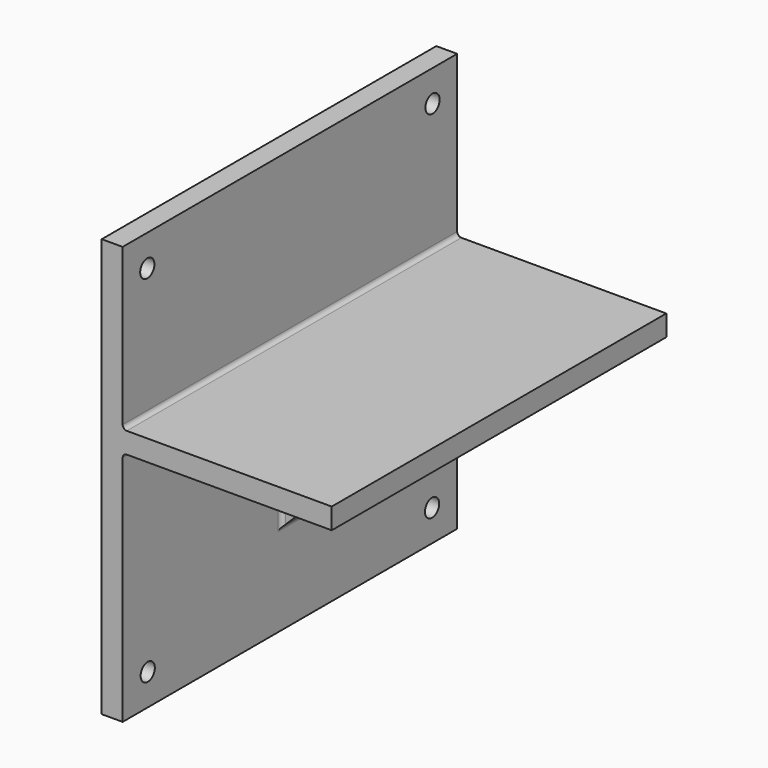
from build123d import *

# Parameters (mm, degrees)
F1_DEPTH = 100
F2_DEPTH = 100
F3_DEPTH = 5
F4_DEPTH = 5
F5_R     = 4.25
F6_DEPTH = 10
F7_R     = 2


with BuildPart() as f1:
    # F0 (on Front) → F1 (new body)
    with BuildSketch(Plane.XZ):
        Polygon((0, 154.164839), (-10, 154.164839), (-10, -45.835161), (0, -45.835161), (0, -2.635161), (0, 67.364839), (70, 67.364839), (100, 67.364839), (100, 77.364839), (0, 77.364839), align=None)
    extrude(amount=F1_DEPTH)

    # F0 (on Front) → F2 (join)
    with BuildSketch(Plane.XZ):
        Polygon((0, 154.164839), (-10, 154.164839), (-10, -45.835161), (0, -45.835161), (0, -2.635161), (0, 67.364839), (70, 67.364839), (100, 67.364839), (100, 77.364839), (0, 77.364839), align=None)
    extrude(amount=-F2_DEPTH)

    # F0 (on Front) → F3 (join)
    with BuildSketch(Plane.XZ):
        Polygon((0, 67.364839), (0, -2.635161), (70, 67.364839), align=None)
    extrude(amount=F3_DEPTH)

    # F0 (on Front) → F4 (join)
    with BuildSketch(Plane.XZ):
        Polygon((0, 67.364839), (0, -2.635161), (70, 67.364839), align=None)
    extrude(amount=-F4_DEPTH)

    # F5 (on face) → F6 (cut)
    with BuildSketch(Plane.YZ):
        with Locations((85.258365, 139.164839)):
            Circle(F5_R)
        with Locations((-85.258365, 139.164839)):
            Circle(F5_R)
        with Locations((-85, -30.835161)):
            Circle(F5_R)
        with Locations((85, -30.835161)):
            Circle(F5_R)
    extrude(amount=-F6_DEPTH, mode=Mode.SUBTRACT)

    # F7
    f7_edges = [f1.edges().sort_by_distance(p)[0] for p in [
        (0, -52.5, 67.364839),
        (0, 52.5, 67.364839),
        (0, 5, 32.364839),
        (35, 5, 67.364839),
        (35, -5, 67.364839),
        (0, -5, 32.364839),
        (0, 0, -2.635161),
        (70, 0, 67.364839),
        (0, 0, 77.364839),
    ]]
    fillet(f7_edges, radius=F7_R)


solid = f1.part
